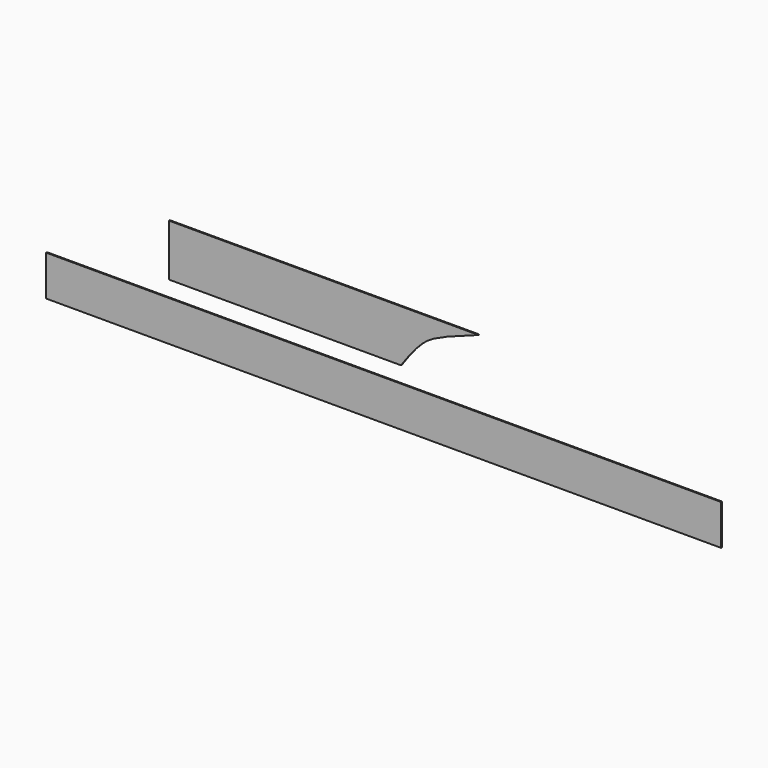
from build123d import *

# Parameters (mm, degrees)
F0_W     = 54.0159689263
F0_H     = 12.0752416551
F1_DEPTH = 0.254
F0_W_2   = 157.0703238249
F0_H_2   = 9.4020965043


with BuildPart() as f1:
    # F0 (on Front) → F1 (new body)
    with BuildSketch(Plane.XZ):
        with Locations((-11.4300004207, 6.0376208276)):
            Rectangle(F0_W, F0_H)
        with BuildLine():
            Line((33.6280427873, 12.0752416551), (15.5779840425, 12.0752416551))
            Line((15.5779840425, 12.0752416551), (15.5779840425, 0))
            add(Edge.make_bspline(
                [(33.6280427873, 12.0752416551), (30.9827395487, 11.1330479466), (26.0443127934, 9.3740985184), (20.3711720814, 6.6899689676), (17.2511204303, 2.3352370953), (15.5779840425, 0)],
                knots=[0, 0, 0, 0, 0.3485214179, 0.6506427959, 1, 1, 1, 1], degree=3))
        make_face()
    extrude(amount=F1_DEPTH)


with BuildPart() as f1b:
    # F0 (on Front) → F1, piece 2 (new body)
    with BuildSketch(Plane.XZ):
        with Locations((11.5221738815, -8.4803224308)):
            Rectangle(F0_W_2, F0_H_2)
    extrude(amount=F1_DEPTH)


solid = Compound([f1.part, f1b.part])
